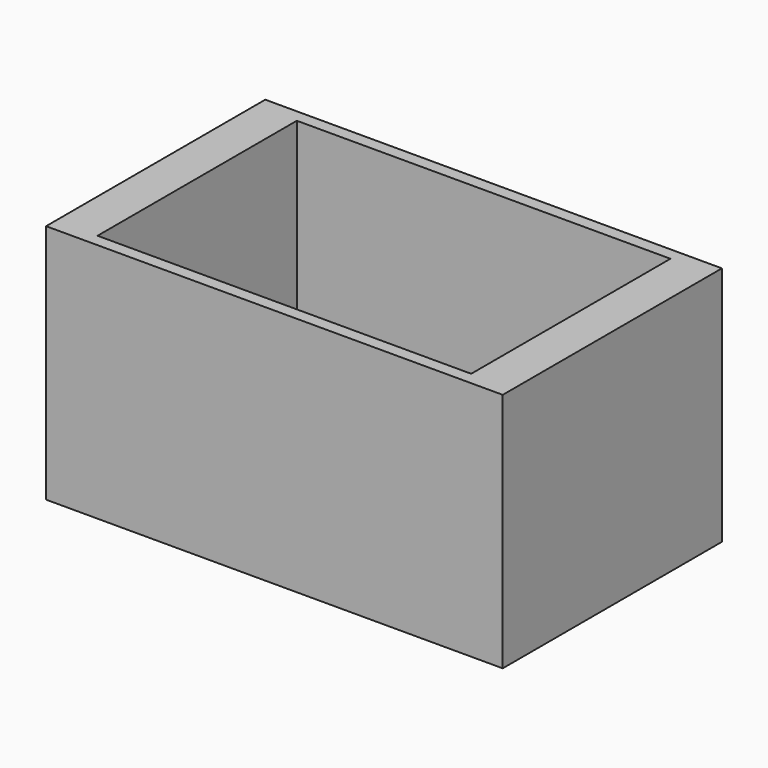
from build123d import *

# Parameters (mm, degrees)
F0_W     = 90
F0_H     = 60
F1_DEPTH = 58
F2_W     = 90
F2_H     = 60
F3_DEPTH = 55


with BuildPart() as f1:
    # F0 (on Top) → F1 (new body)
    with BuildSketch(Plane.XY):
        Polygon((48, 33), (-48, 33), (-55, 33), (-55, -33), (-48, -33), (48, -33), (55, -33), (55, 33), align=None)
        Rectangle(F0_W, F0_H, mode=Mode.SUBTRACT)
        Rectangle(F0_W, F0_H)
    extrude(amount=F1_DEPTH)

    # F2 (on face) → F3 (cut)
    with BuildSketch(Plane.XY.offset(58)):
        Rectangle(F2_W, F2_H)
    extrude(amount=-F3_DEPTH, mode=Mode.SUBTRACT)


solid = f1.part
